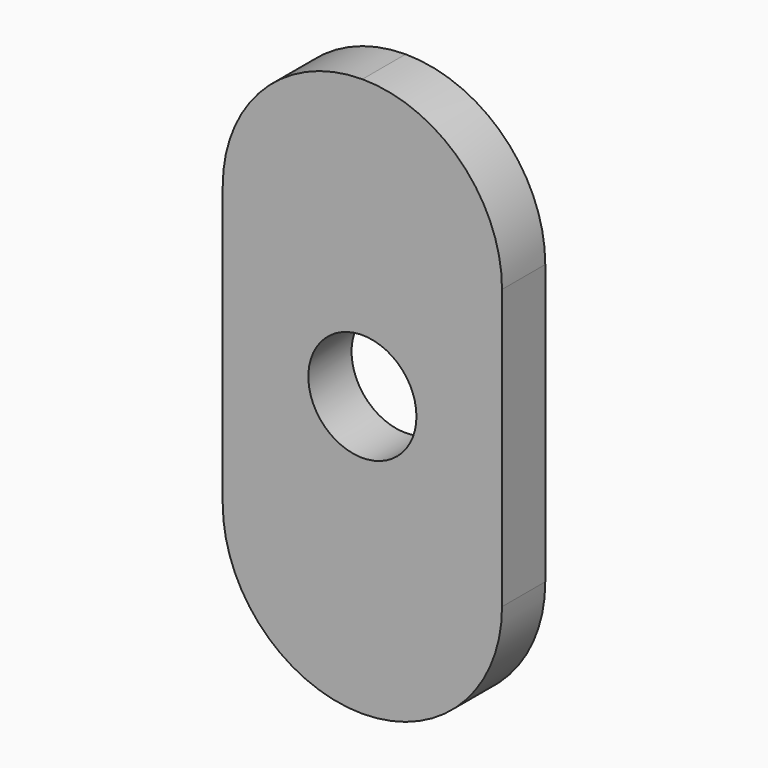
from build123d import *

# Parameters (mm, degrees)
F1_DEPTH = 3
F2_R     = 3
F3_DEPTH = 25


with BuildPart() as f1:
    # F0 (on Front) → F1 (new body)
    with BuildSketch(Plane.XZ):
        with BuildLine():
            ThreePointArc((0, 15.5), (-5.480078, 13.230078), (-7.75, 7.75))
            Line((-7.75, 7.75), (-7.75, -7.75))
            ThreePointArc((-7.75, -7.75), (-5.480078, -13.230078), (0, -15.5))
            ThreePointArc((0, -15.5), (5.480078, -13.230078), (7.75, -7.75))
            Line((7.75, -7.75), (7.75, 7.75))
            ThreePointArc((7.75, 7.75), (5.480078, 13.230078), (0, 15.5))
        make_face()
    extrude(amount=F1_DEPTH)

    # F2 (on face) → F3 (cut)
    with BuildSketch(Plane.XZ.offset(3)):
        Circle(F2_R)
    extrude(amount=-F3_DEPTH, mode=Mode.SUBTRACT)


solid = f1.part
